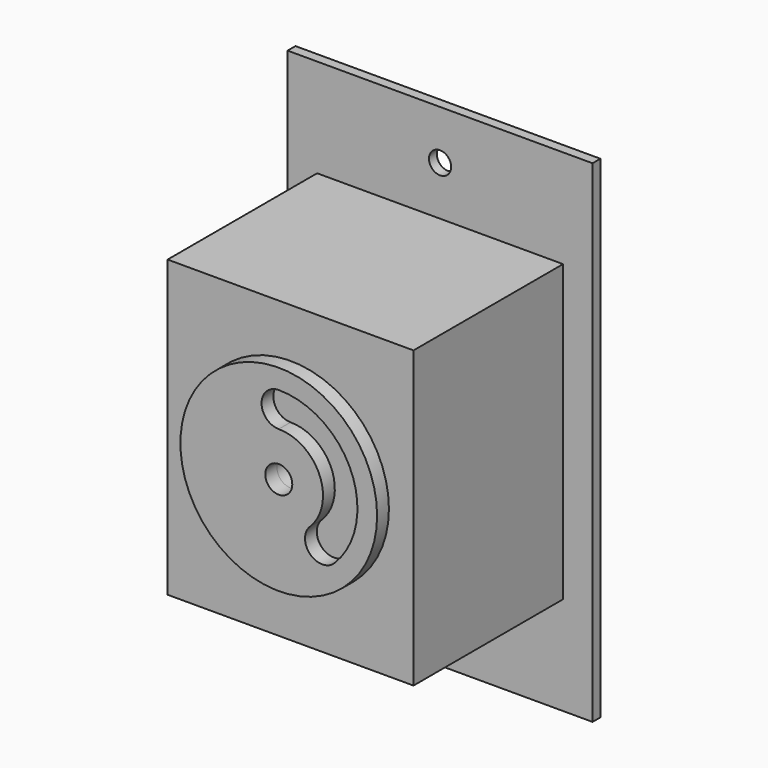
from build123d import *

# Parameters (mm, degrees)
F0_W      = 62
F0_H      = 100
F0_R      = 2.25
F1_DEPTH  = 2
F2_W      = 50
F2_H      = 60
F2_W_2    = 44
F2_H_2    = 54
F3_DEPTH  = 35
F3_FACE_W = 44
F3_FACE_H = 54
F4_DEPTH  = 2.001
F6_W      = 50
F6_H      = 60
F7_DEPTH  = 3
F8_R      = 20
F8_R_2    = 2.75
F11_DEPTH = 3
F14_DEPTH = 3.001
F15_DEPTH = 40.001
F16_DEPTH = 40.001


with BuildPart() as f1:
    # F0 (on Front) → F1 (new body)
    with BuildSketch(Plane.XZ):
        Rectangle(F0_W, F0_H)
        with Locations((0, -40)):
            Circle(F0_R, mode=Mode.SUBTRACT)
        with Locations((0, 40)):
            Circle(F0_R, mode=Mode.SUBTRACT)
    extrude(amount=F1_DEPTH)

    # F2 (on face) → F3 (join)
    with BuildSketch(Plane.XZ.offset(2)):
        Rectangle(F2_W, F2_H)
        Rectangle(F2_W_2, F2_H_2, mode=Mode.SUBTRACT)
    extrude(amount=F3_DEPTH)

    # F3_face (on face) → F4 (cut, through all)
    with BuildSketch(Plane.XZ.offset(2)):
        Rectangle(F3_FACE_W, F3_FACE_H)
    extrude(amount=-F4_DEPTH, mode=Mode.SUBTRACT)

    # F6 (on offset) → F7 (join)
    with BuildSketch(Plane.XZ.offset(37)):
        Rectangle(F6_W, F6_H)
    extrude(amount=F7_DEPTH)

    # F12 (on offset) → F15 (cut, through all)
    with BuildSketch(Plane.XZ.offset(40)):
        with BuildLine():
            ThreePointArc((-5.656854, 5.656854), (-5.656854, 12.020815), (-12.020815, 12.020815))
            ThreePointArc((-12.020815, 12.020815), (-15.705952, -6.505618), (0, -17))
            ThreePointArc((0, -17), (4.5, -12.5), (0, -8))
            ThreePointArc((0, -8), (-7.391036, -3.061467), (-5.656854, 5.656854))
        make_face()
    extrude(amount=-F15_DEPTH, mode=Mode.SUBTRACT)

    # F8 (on face) → F16 (cut, through all)
    with BuildSketch(Plane.XZ.offset(40)):
        Circle(F8_R_2)
    extrude(amount=-F16_DEPTH, mode=Mode.SUBTRACT)


with BuildPart() as f11:
    # F8 (on face) → F11 (new body)
    with BuildSketch(Plane.XZ.offset(40)):
        Circle(F8_R)
        with BuildLine():
            ThreePointArc((8.838835, -8.838835), (4.783543, -11.548494), (0, -12.5))
            ThreePointArc((0, -12.5), (-11.548494, -4.783543), (-8.838835, 8.838835))
            ThreePointArc((-8.838835, 8.838835), (-4.783543, 11.548494), (0, 12.5))
            ThreePointArc((0, 12.5), (11.548494, 4.783543), (8.838835, -8.838835))
        make_face(mode=Mode.SUBTRACT)
        with BuildLine():
            ThreePointArc((-8.838835, 8.838835), (-11.548494, -4.783543), (0, -12.5))
            ThreePointArc((0, -12.5), (4.783543, -11.548494), (8.838835, -8.838835))
            ThreePointArc((8.838835, -8.838835), (11.548494, 4.783543), (0, 12.5))
            ThreePointArc((0, 12.5), (-4.783543, 11.548494), (-8.838835, 8.838835))
        make_face()
        Circle(F8_R_2, mode=Mode.SUBTRACT)
    extrude(amount=F11_DEPTH)

    # F13 (on offset) → F14 (cut, through all)
    with BuildSketch(Plane.XZ.offset(40)):
        with BuildLine():
            ThreePointArc((6.363961, -6.363961), (6.363961, -11.313708), (11.313708, -11.313708))
            ThreePointArc((11.313708, -11.313708), (14.782073, 6.122935), (0, 16))
            ThreePointArc((0, 16), (-3.5, 12.5), (0, 9))
            ThreePointArc((0, 9), (8.314916, 3.444151), (6.363961, -6.363961))
        make_face()
    extrude(amount=F14_DEPTH, mode=Mode.SUBTRACT)


solid = Compound([f1.part, f11.part])
